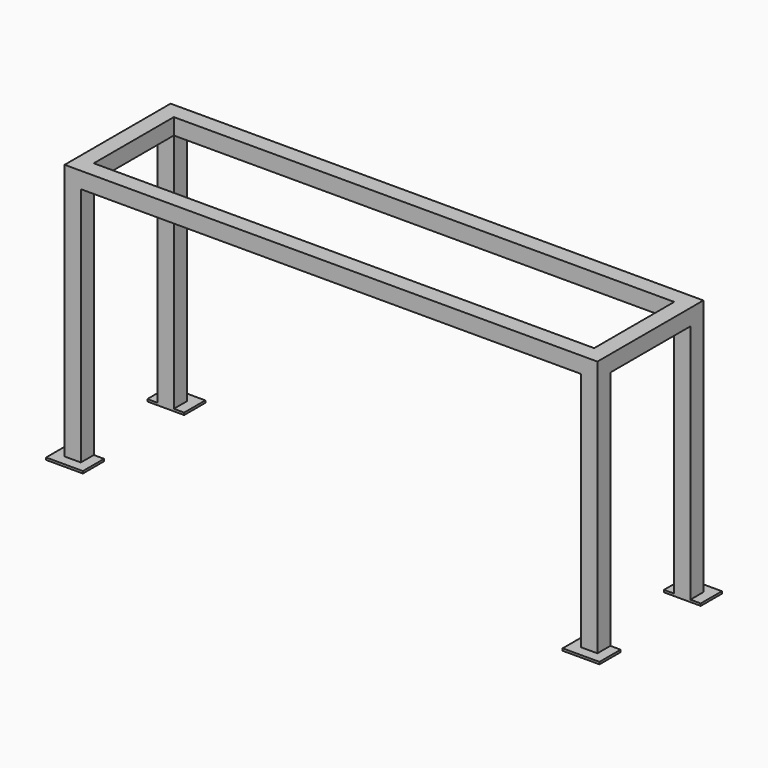
from build123d import *

# Parameters (mm, degrees)
F1_DEPTH      = 900
F0_W          = 70
F0_H          = 15
F0_W_2        = 110
F2_DEPTH      = 970
F2_DEPTH_BACK = 70
F3_W          = 680
F3_H          = 1901.932733
F4_DEPTH      = 4500
F5_W          = 3400
F5_H          = 680
F6_DEPTH      = 120


with BuildPart() as f1:
    # F0 (on Front) → F1 (new body)
    with BuildSketch(Plane.XZ):
        Polygon((0, 1760), (0, 15), (110, 15), (110, 1650), (3510, 1650), (3510, 15), (3620, 15), (3620, 1760), align=None)
    extrude(amount=F1_DEPTH)

    # F0 (on Front) → F2 (join, two sides)
    with BuildSketch(Plane.XZ) as f2_sk:
        with Locations((145, 7.5)):
            Rectangle(F0_W, F0_H)
        with Locations((-35, 7.5)):
            Rectangle(F0_W, F0_H)
        with Locations((55, 7.5)):
            Rectangle(F0_W_2, F0_H)
        with Locations((3475, 7.5)):
            Rectangle(F0_W, F0_H)
        with Locations((3565, 7.5)):
            Rectangle(F0_W_2, F0_H)
        with Locations((3655, 7.5)):
            Rectangle(F0_W, F0_H)
    extrude(amount=F2_DEPTH)
    extrude(f2_sk.sketch, amount=-F2_DEPTH_BACK)

    # F3 (on face) → F4 (cut, symmetric)
    with BuildSketch(Plane.YZ.offset(3620)):
        with Locations((-450, 699.033633)):
            Rectangle(F3_W, F3_H)
    extrude(amount=F4_DEPTH, both=True, mode=Mode.SUBTRACT)

    # F5 (on face) → F6 (cut)
    with BuildSketch(Plane.XY.offset(1760)):
        with Locations((1810, -450)):
            Rectangle(F5_W, F5_H)
    extrude(amount=-F6_DEPTH, mode=Mode.SUBTRACT)


solid = f1.part
